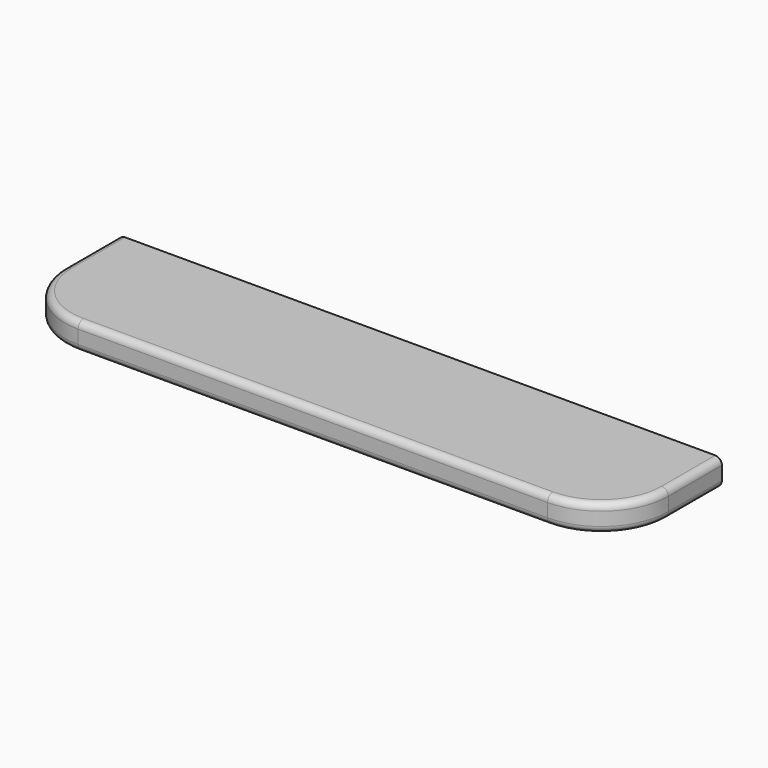
from build123d import *

# Parameters (mm, degrees)
F1_DEPTH = 4
F2_R     = 1


with BuildPart() as f1:
    # F0 (on Top) → F1 (new body)
    with BuildSketch(Plane.XY):
        with BuildLine():
            Line((45, 0), (-45, 0))
            Line((-45, 0), (-45, -10))
            ThreePointArc((-45, -10), (-42.071068, -17.071068), (-35, -20))
            Line((-35, -20), (35, -20))
            ThreePointArc((35, -20), (42.071068, -17.071068), (45, -10))
            Line((45, -10), (45, 0))
        make_face()
    extrude(amount=F1_DEPTH)

    # F2
    f2_edges = [f1.edges().sort_by_distance(p)[0] for p in [
        (-45, -5, 4),
        (-42.071068, -17.071068, 0),
    ]]
    fillet(f2_edges, radius=F2_R)


solid = f1.part
